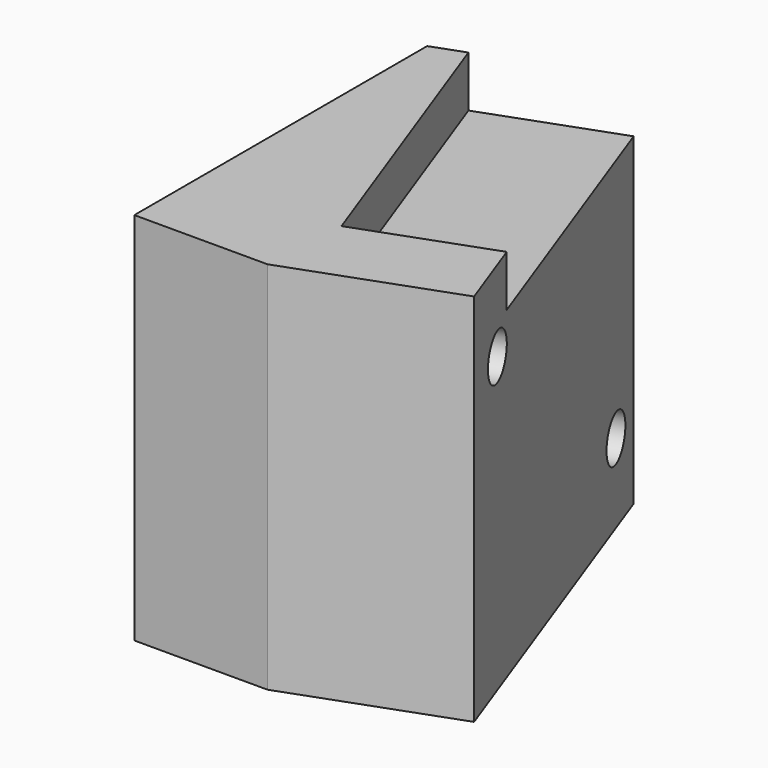
from build123d import *

# Parameters (mm, degrees)
F1_DEPTH = 22
F2_DEPTH = 10
F3_R     = 9.5
F4_DEPTH = 2.5
F5_R     = 1.35
F5_W     = 18.2
F5_H     = 3
F6_DEPTH = 8


with BuildPart() as f1:
    # F0 (on Top) → F1 (new body)
    with BuildSketch(Plane.XY):
        Polygon((0, 21.5), (0, 0), (7.8253600367, 0), align=None)
    extrude(amount=F1_DEPTH)

    # F2 (add): a face of the model
    f2_faces = [f1.faces().sort_by_distance(p)[0] for p in [
        (3.9126800184, 10.75, 11),
    ]]
    extrude(f2_faces, amount=F2_DEPTH)

    # F3 (on face) → F4 (cut)
    with BuildSketch(Plane(origin=(0, 0, 0), x_dir=(0, -1, 0), z_dir=(-1, 0, 0))):
        with Locations((-10.75, 11)):
            Circle(F3_R)
    extrude(amount=-F4_DEPTH, mode=Mode.SUBTRACT)

    # F5 (on face) → F6 (cut)
    with BuildSketch(Plane(origin=(16.306893012, 5.9352236697, 0), x_dir=(-0.3420201433, 0.9396926208, 0), z_dir=(0.9396926208, 0.3420201433, 0))):
        with Locations((0.6633913469, 17.24)):
            Circle(F5_R)
        with Locations((17.6633913469, 4.64)):
            Circle(F5_R)
        with Locations((11.1033913469, 20.5)):
            Rectangle(F5_W, F5_H)
    extrude(amount=-F6_DEPTH, mode=Mode.SUBTRACT)


solid = f1.part
